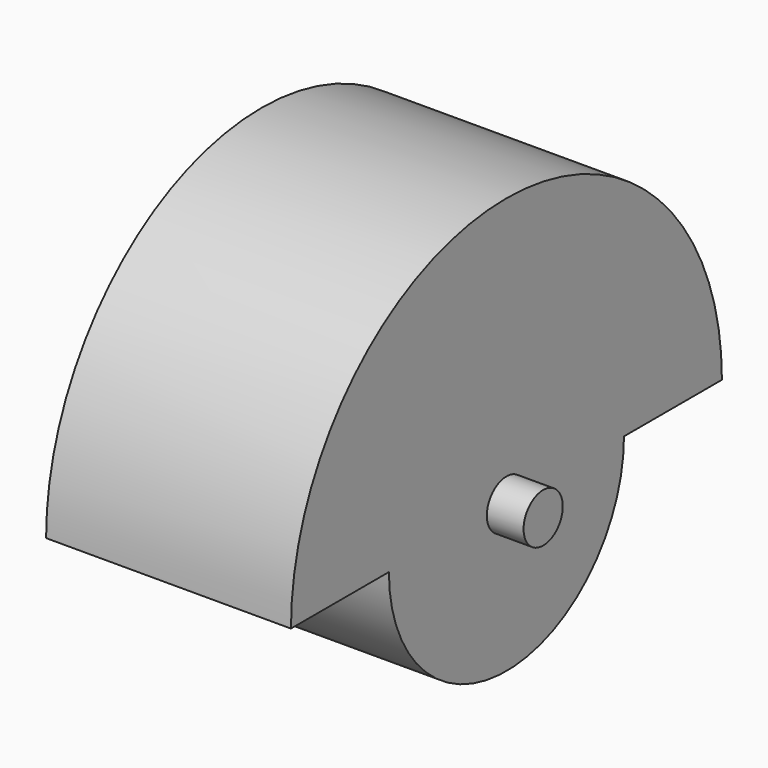
from build123d import *

# Parameters (mm, degrees)
F1_DEPTH = 2
F2_R     = 0.2
F3_DEPTH = 0.3


with BuildPart() as f1:
    # F0 (on Right) → F1 (new body)
    with BuildSketch(Plane.YZ):
        with BuildLine():
            ThreePointArc((2.2, 0), (0, 2.2), (-2.2, 0))
            Line((-2.2, 0), (-1.2, 0))
            ThreePointArc((-1.2, 0), (0, -1.2), (1.2, 0))
            Line((1.2, 0), (2.2, 0))
        make_face()
    extrude(amount=F1_DEPTH)

    # F2 (on face) → F3 (join)
    with BuildSketch(Plane.YZ.offset(2)):
        Circle(F2_R)
    extrude(amount=F3_DEPTH)


solid = f1.part
